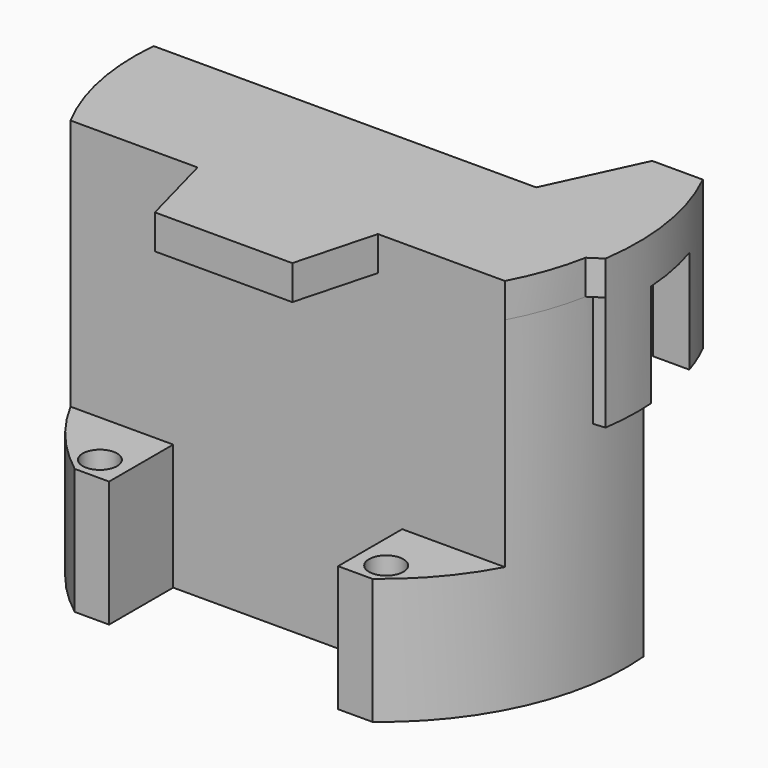
from build123d import *

# Parameters (mm, degrees)
SKETCH046_R     = 1.5
PAD026_DEPTH    = 30
POCKET016_DEPTH = 19
POCKET017_DEPTH = 50
PAD027_DEPTH    = 3
PAD028_DEPTH    = 10
SKETCH054_W     = 30
SKETCH054_H     = 5.5
POCKET020_DEPTH = 9


with BuildPart() as part:
    # Sketch046 → Pad026 (new body)
    with BuildSketch(Plane.XY):
        with BuildLine():
            Line((-21.439893, 1.606546), (-18, 1))
            Line((-18, 1), (-18, 0))
            Line((-18, 0), (-20, 0))
            Line((-20, 0), (-20, -2))
            Line((-20, -2), (-18, -2))
            Line((-18, -2), (-18, -3))
            Line((-19.218253, -3.302841), (-18, -3))
            ThreePointArc((-19.218253, -3.302841), (-18.4595, -6.284654), (-17.241169, -9.11))
            Line((17.241169, -9.11), (-17.241169, -9.11))
            ThreePointArc((17.241169, -9.11), (18.417093, -6.407863), (19.172397, -3.559379))
            Line((19.172397, -3.559379), (16, -3))
            Line((16, -3), (16, -2))
            Line((16, -2), (18, -2))
            Line((18, -2), (18, 0))
            Line((18, 0), (16, 0))
            Line((16, 0), (16, 1))
            Line((16, 1), (21.411013, 1.954108))
            ThreePointArc((13, -17.124544), (19.673032, -8.673051), (21.411013, 1.954108))
            Line((13, -17.124544), (10, -17.124544))
            Line((10, -17.124544), (10, -10.124544))
            Line((10, -10.124544), (-10, -10.124544))
            Line((-10, -10.124544), (-10, -17.124544))
            Line((-10, -17.124544), (-13, -17.124544))
            ThreePointArc((-21.439893, 1.606546), (-19.60204, -8.832328), (-13, -17.124544))
        make_face()
        with Locations((-12.5, -15)):
            Circle(SKETCH046_R, mode=Mode.SUBTRACT)
        with Locations((12.5, -15)):
            Circle(SKETCH046_R, mode=Mode.SUBTRACT)
    extrude(amount=PAD026_DEPTH)

    # Sketch047 (on Face28 of Pad026) → Pocket016 (cut)
    with BuildSketch(Plane.XY.offset(30)):
        with BuildLine():
            ThreePointArc((-18.966908, -10.124544), (-16.362176, -13.947372), (-13, -17.124544))
            Line((-13, -17.124544), (13, -17.124544))
            ThreePointArc((13, -17.124544), (16.362176, -13.947372), (18.966908, -10.124544))
            Line((-18.966908, -10.124544), (18.966908, -10.124544))
        make_face()
    extrude(amount=-POCKET016_DEPTH, mode=Mode.SUBTRACT)

    # Sketch049 (on Face5 of Pocket016) → Pocket017 (cut)
    with BuildSketch(Plane.XY.offset(30)):
        with BuildLine():
            ThreePointArc((19.172397, -3.559379), (0, 19.5), (-19.172397, -3.559379))
            Line((19.172397, -3.559379), (-19.172397, -3.559379))
        make_face()
    extrude(amount=-POCKET017_DEPTH, mode=Mode.SUBTRACT)

    # Sketch048 (on Face5 of Pocket016) → Pad027 (join)
    with BuildSketch(Plane.XY.offset(30)):
        with BuildLine():
            ThreePointArc((-21.406775, 2), (-21.077469, -4.241496), (-18.966908, -10.124544))
            Line((-7.875644, -10.124544), (-18.966908, -10.124544))
            Line((-6, -17.124544), (-7.875644, -10.124544))
            Line((6, -17.124544), (-6, -17.124544))
            Line((6, -17.124544), (7.875644, -10.124544))
            Line((7.875644, -10.124544), (18.966908, -10.124544))
            ThreePointArc((18.966908, -10.124544), (20.278323, -7.144202), (21.12463, -4))
            Line((21.12463, -4), (22.264041, -3.25))
            ThreePointArc((22.264041, -3.25), (22.220442, 3.535811), (20.155644, 10))
            Line((15.730461, 10), (20.155644, 10))
            Line((12, 2), (15.730461, 10))
            Line((12, 2), (-21.406775, 2))
        make_face()
    extrude(amount=PAD027_DEPTH)

    # Sketch053 (on Face4 of Pad027) → Pad028 (join)
    with BuildSketch(Plane(origin=(0, 0, 30), x_dir=(1, 0, 0), z_dir=(0, 0, -1))):
        with BuildLine():
            ThreePointArc((20.155644, -10), (22.220442, -3.535811), (22.264041, 3.25))
            Line((22.264041, 3.25), (19.172397, 3.559379))
            ThreePointArc((16.740669, -10), (19.193782, -3.442198), (19.172397, 3.559379))
            Line((16.740669, -10), (20.155644, -10))
        make_face()
    extrude(amount=PAD028_DEPTH)

    # Sketch054 (on Face32 of Pad028) → Pocket020 (cut)
    with BuildSketch(Plane(origin=(0, 0, 20), x_dir=(1, 0, 0), z_dir=(0, 0, -1))):
        with Locations((15, -4.25)):
            Rectangle(SKETCH054_W, SKETCH054_H)
    extrude(amount=-POCKET020_DEPTH, mode=Mode.SUBTRACT)


with BuildPart() as part_1:
    # Body018 placement: moved
    add(part.part.moved(Location((0, 0, 200))))


solid = part_1.part
